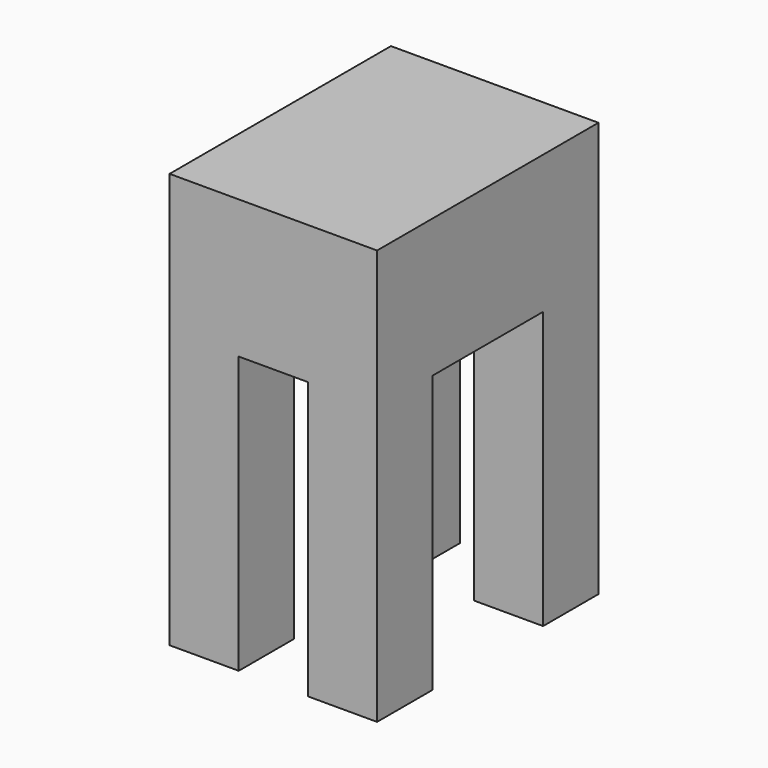
from build123d import *

# Parameters (mm, degrees)
F0_W     = 38.1
F0_H     = 50.8
F1_DEPTH = 38.1
F3_DEPTH = 50.8


with BuildPart() as f1:
    # F0 (on Top) → F1 (new body, symmetric)
    with BuildSketch(Plane.XY):
        Rectangle(F0_W, F0_H)
    extrude(amount=F1_DEPTH, both=True)

    # F2 (on face) → F3 (cut)
    with BuildSketch(Plane(origin=(0, 0, -38.1), x_dir=(1, 0, 0), z_dir=(0, 0, -1))):
        Polygon((6.35, 25.4), (-6.35, 25.4), (-6.35, 12.7), (-19.05, 12.7), (-19.05, -12.7), (-6.35, -12.7), (-6.35, -25.4), (6.35, -25.4), (6.35, -12.7), (19.05, -12.7), (19.05, 12.7), (6.35, 12.7), align=None)
    extrude(amount=-F3_DEPTH, mode=Mode.SUBTRACT)


solid = f1.part
